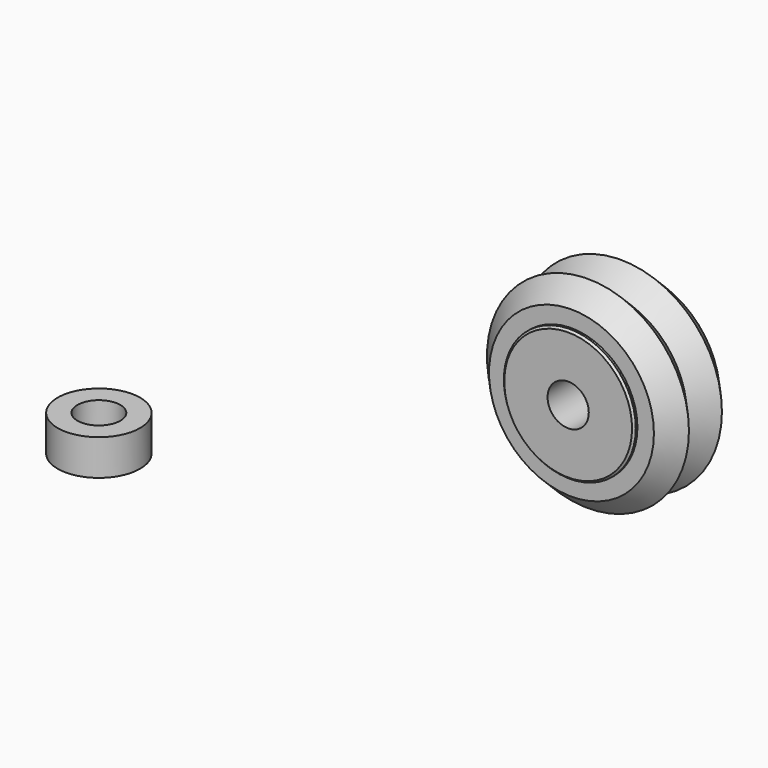
from build123d import *

# Parameters (mm, degrees)
F0_R     = 5
F0_R_2   = 2.6
F1_DEPTH = 4.35
F4_SIZE  = 0.25
F5_SIZE  = 0.25


with BuildPart() as f1:
    # F0 (on Top) → F1 (new body)
    with BuildSketch(Plane.XY):
        Circle(F0_R)
        Circle(F0_R_2, mode=Mode.SUBTRACT)
    extrude(amount=F1_DEPTH)


with BuildPart() as f3:
    # F2 (on Top) → F3 (revolve)
    with BuildSketch(Plane.XY):
        Polygon((36.4766009152, 46.5609329939), (30.9766009152, 46.5609329939), (30.9766009152, 35.5609329939), (36.4766009152, 35.5609329939), (36.4766009152, 36.0609329939), (36.4766009152, 46.0609329939), align=None)
        Polygon((38.4766009152, 46.0609329939), (36.4766009152, 46.0609329939), (36.4766009152, 36.0609329939), (38.4766009152, 36.0609329939), (38.4766009152, 41.0609329939), align=None)
        Polygon((40.7266009152, 43.5609329939), (38.4766009152, 46.0609329939), (38.4766009152, 41.0609329939), align=None)
        Polygon((38.4766009152, 41.0609329939), (38.4766009152, 36.0609329939), (40.7266009152, 38.5609329939), align=None)
    revolve(axis=Axis((28.4766009152, 40.2543731332, 0), (0, 1, 0)))

    # F4
    f4_edges = [f3.edges().sort_by_distance(p)[0] for p in [
        (20.476601, 35.560933, 0),
    ]]
    chamfer(f4_edges, length=F4_SIZE)

    # F5
    f5_edges = [f3.edges().sort_by_distance(p)[0] for p in [
        (20.476601, 46.560933, 0),
    ]]
    chamfer(f5_edges, length=F5_SIZE)


solid = Compound([f1.part, f3.part])
